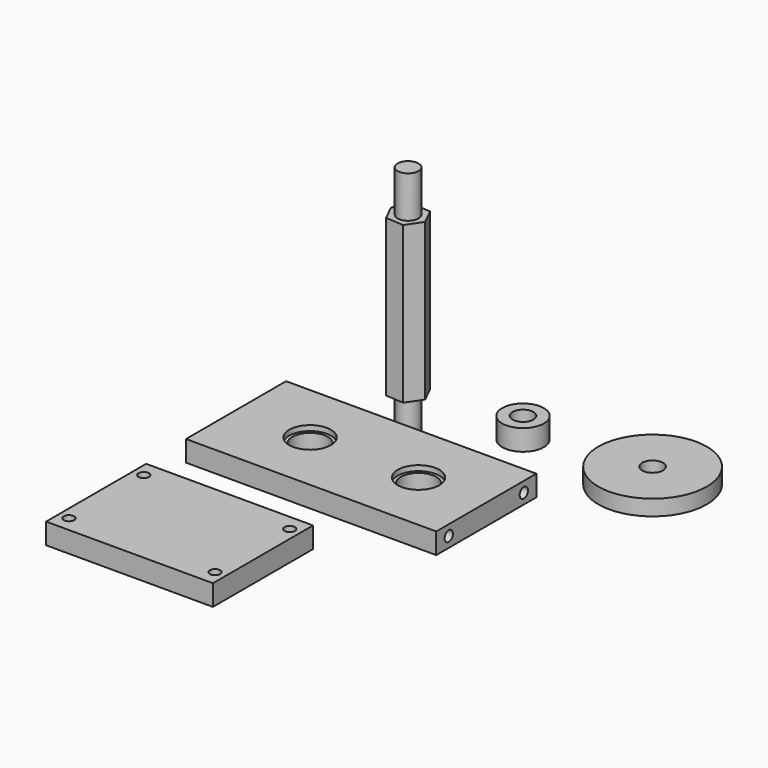
from build123d import *

# Parameters (mm, degrees)
F1_DEPTH  = 95.25
F2_R      = 6.35
F3_DEPTH  = 25.4
F4_R      = 6.35
F5_DEPTH  = 25.4
F6_R      = 12.7
F6_R_2    = 6.35
F7_DEPTH  = 12.7
F8_W      = 152.4
F8_H      = 76.2
F8_R      = 10.795
F9_DEPTH  = 12.7
F10_R     = 12.7
F11_DEPTH = 3.175
F12_W     = 101.6
F12_H     = 76.2
F13_DEPTH = 12.7
F14_R     = 3.175
F15_DEPTH = 152.401
F16_R     = 33.02
F16_R_2   = 6.35
F17_DEPTH = 9.525
F18_R     = 3.175
F19_DEPTH = 38.101


with BuildPart() as f1:
    # F0 (on Top) → F1 (new body)
    with BuildSketch(Plane.XY):
        Polygon((-33.378118, 24.013666), (-27.277237, 33.164991), (-32.152076, 43.024172), (-43.127797, 43.732027), (-49.228678, 34.580702), (-44.353838, 24.721522), align=None)
    extrude(amount=F1_DEPTH)

    # F2 (on face) → F3 (join)
    with BuildSketch(Plane.XY.offset(95.25)):
        with Locations((-38.252957, 33.872847)):
            Circle(F2_R)
    extrude(amount=F3_DEPTH)

    # F4 (on face) → F5 (join)
    with BuildSketch(Plane(origin=(0, 0, 0), x_dir=(1, 0, 0), z_dir=(0, 0, -1))):
        with Locations((-38.252957, -33.872847)):
            Circle(F4_R)
    extrude(amount=F5_DEPTH)


with BuildPart() as f7:
    # F6 (on Top) → F7 (new body)
    with BuildSketch(Plane.XY):
        with Locations((34.748867, 30.076751)):
            Circle(F6_R)
        with Locations((34.748867, 30.076751)):
            Circle(F6_R_2, mode=Mode.SUBTRACT)
    extrude(amount=F7_DEPTH)


with BuildPart() as f9:
    # F8 (on Top) → F9 (new body)
    with BuildSketch(Plane.XY):
        with Locations((0.729812, -50.581329)):
            Rectangle(F8_W, F8_H)
        with Locations((-30.385188, -50.581329)):
            Circle(F8_R, mode=Mode.SUBTRACT)
        with Locations((35.654812, -50.581329)):
            Circle(F8_R, mode=Mode.SUBTRACT)
    extrude(amount=F9_DEPTH)

    # F10 (on face) → F11 (cut)
    with BuildSketch(Plane.XY.offset(12.7)):
        with Locations((-30.385188, -50.581329)):
            Circle(F10_R)
        with Locations((35.654812, -50.581329)):
            Circle(F10_R)
    extrude(amount=-F11_DEPTH, mode=Mode.SUBTRACT)

    # F14 (on face) → F15 (cut, through all)
    with BuildSketch(Plane(origin=(-75.470188, 0, 0), x_dir=(0, -1, 0), z_dir=(-1, 0, 0))):
        with Locations((22.006329, 6.35)):
            Circle(F14_R)
        with Locations((79.156329, 6.35)):
            Circle(F14_R)
    extrude(amount=-F15_DEPTH, mode=Mode.SUBTRACT)


with BuildPart() as f13:
    # F12 (on Top) → F13 (new body)
    with BuildSketch(Plane.XY):
        with Locations((-23.473332, -158.562118)):
            Rectangle(F12_W, F12_H)
    extrude(amount=F13_DEPTH)

    # F18 (on face) → F19 (cut, through all)
    with BuildSketch(Plane.XY.offset(12.7)):
        with Locations((-67.923332, -130.241118)):
            Circle(F18_R)
        with Locations((-67.923332, -187.137118)):
            Circle(F18_R)
        with Locations((20.976668, -130.241118)):
            Circle(F18_R)
        with Locations((20.976668, -187.137118)):
            Circle(F18_R)
    extrude(amount=-F19_DEPTH, mode=Mode.SUBTRACT)


with BuildPart() as f17:
    # F16 (on Top) → F17 (new body)
    with BuildSketch(Plane.XY):
        with Locations((111.755282, 32.467157)):
            Circle(F16_R)
        with Locations((111.755282, 32.467157)):
            Circle(F16_R_2, mode=Mode.SUBTRACT)
    extrude(amount=F17_DEPTH)


solid = Compound([f1.part, f7.part, f9.part, f13.part, f17.part])
